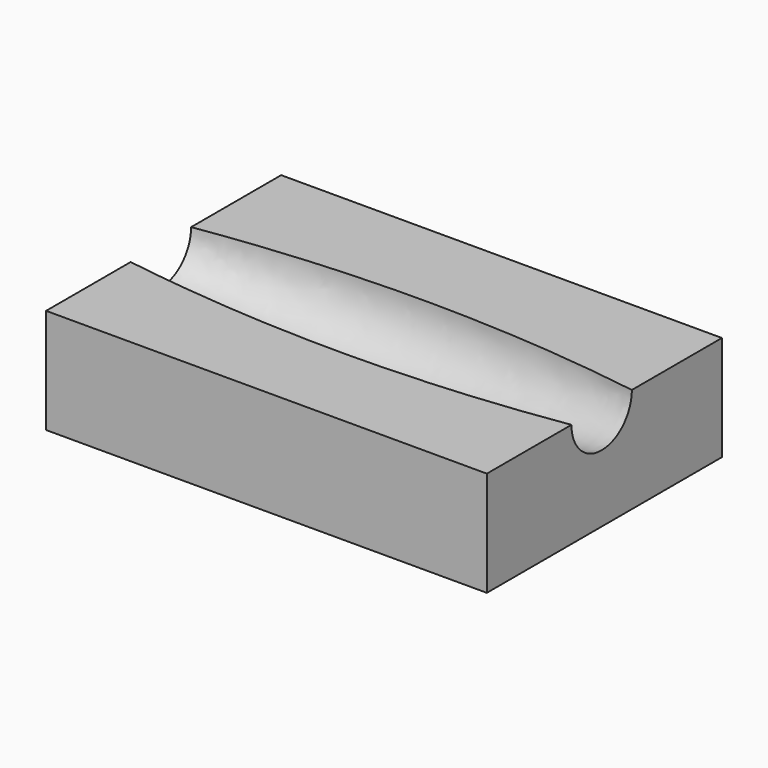
from build123d import *

# Parameters (mm, degrees)
F1_W     = 105
F1_H     = 70
F2_DEPTH = 25
F4_ANGLE = -180


with BuildPart() as f2:
    # F1 (on Top) → F2 (new body)
    with BuildSketch(Plane.XY):
        with Locations((0, 0.815216)):
            Rectangle(F1_W, F1_H)
    extrude(amount=-F2_DEPTH)

    # F0 (on Front) → F3 (revolve, cut)
    with BuildSketch(Plane.XZ):
        with BuildLine():
            Line((-52.5, 9), (-52.5, 0))
            Line((-52.5, 0), (52.5, 0))
            Line((52.5, 0), (52.5, 9))
            ThreePointArc((52.5, 9), (0, 13), (-52.5, 9))
        make_face()
    revolve(axis=Axis((4.963639, 0, 0), (1, 0, 0)), mode=Mode.SUBTRACT)


with BuildPart() as f4_1:
    # F4: copy of F2
    add(f2.part.rotate(Axis((52.5, 0, 0), (1, 0, 0)), F4_ANGLE))


solid = f2.part
